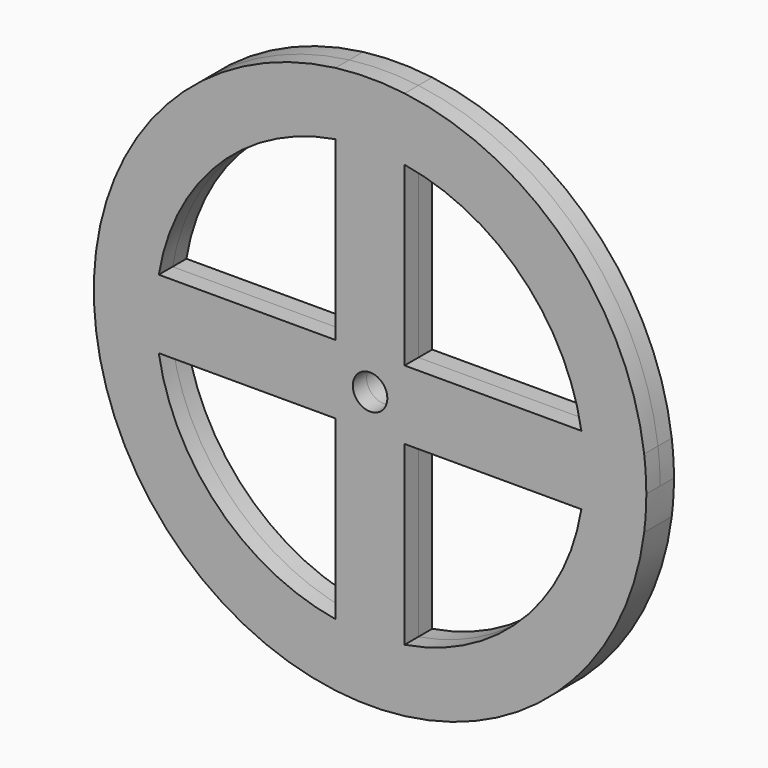
from build123d import *

# Parameters (mm, degrees)
F1_DEPTH = 2.5


with BuildPart() as f1:
    # F0 (on Front) → F1 (new body, symmetric)
    with BuildSketch(Plane.XZ):
        with BuildLine():
            ThreePointArc((39.686269666, -5), (39.9214903695, -2.5049165017), (40, 0))
            ThreePointArc((40, 0), (39.9214903695, 2.5049165017), (39.686269666, 5))
            ThreePointArc((39.686269666, 5), (28.2842712475, 28.2842712475), (5, 39.686269666))
            ThreePointArc((5, 39.686269666), (5.63e-08, 40), (-4.9999998882, 39.68626968))
            ThreePointArc((-4.9999998882, 39.68626968), (-28.2842712076, 28.2842712873), (-39.686269666, 5))
            ThreePointArc((-39.686269666, 5), (-40, 0), (-39.686269666, -5))
            ThreePointArc((-39.686269666, -5), (-28.2842712475, -28.2842712475), (-5, -39.686269666))
            ThreePointArc((-5, -39.686269666), (0, -40), (5, -39.686269666))
            ThreePointArc((5, -39.686269666), (28.2842712475, -28.2842712475), (39.686269666, -5))
        make_face()
        with BuildLine():
            Line((-30.5941170816, -5), (-5.5901699437, -5))
            Line((-5.5901699437, -5), (-5, -5))
            Line((-5, -5), (-5, -5.5901699437))
            Line((-5, -5.5901699437), (-5, -30.5941170816))
            ThreePointArc((-5, -30.5941170816), (-21.9203102168, -21.9203102168), (-30.5941170816, -5))
        make_face(mode=Mode.SUBTRACT)
        with BuildLine():
            Line((5, -5.5901699437), (5, -5))
            Line((5, -5), (5.5901699437, -5))
            Line((5.5901699437, -5), (30.5941170816, -5))
            ThreePointArc((30.5941170816, -5), (21.9203102168, -21.9203102168), (5, -30.5941170816))
            Line((5, -30.5941170816), (5, -5.5901699437))
        make_face(mode=Mode.SUBTRACT)
        with BuildLine():
            ThreePointArc((-30.5941170816, 5), (-21.9203101767, 21.9203102568), (-4.9999998882, 30.5941170998))
            Line((-4.9999998882, 30.5941170998), (-4.9999998882, 5.5901700437))
            Line((-4.9999998882, 5.5901700437), (-4.9999998882, 5))
            Line((-4.9999998882, 5), (-5.5901699437, 5))
            Line((-5.5901699437, 5), (-30.5941170816, 5))
        make_face(mode=Mode.SUBTRACT)
        with BuildLine():
            ThreePointArc((-2.5, 0), (0, 2.5), (2.5, 0))
            ThreePointArc((2.5, 0), (0, -2.5), (-2.5, 0))
        make_face(mode=Mode.SUBTRACT)
        with BuildLine():
            Line((5.5901699437, 5), (5, 5))
            Line((5, 5), (5, 5.5901699437))
            Line((5, 5.5901699437), (5, 30.5941170816))
            ThreePointArc((5, 30.5941170816), (21.9203102168, 21.9203102168), (30.5941170816, 5))
            Line((30.5941170816, 5), (5.5901699437, 5))
        make_face(mode=Mode.SUBTRACT)
    extrude(amount=F1_DEPTH, both=True)


solid = f1.part
